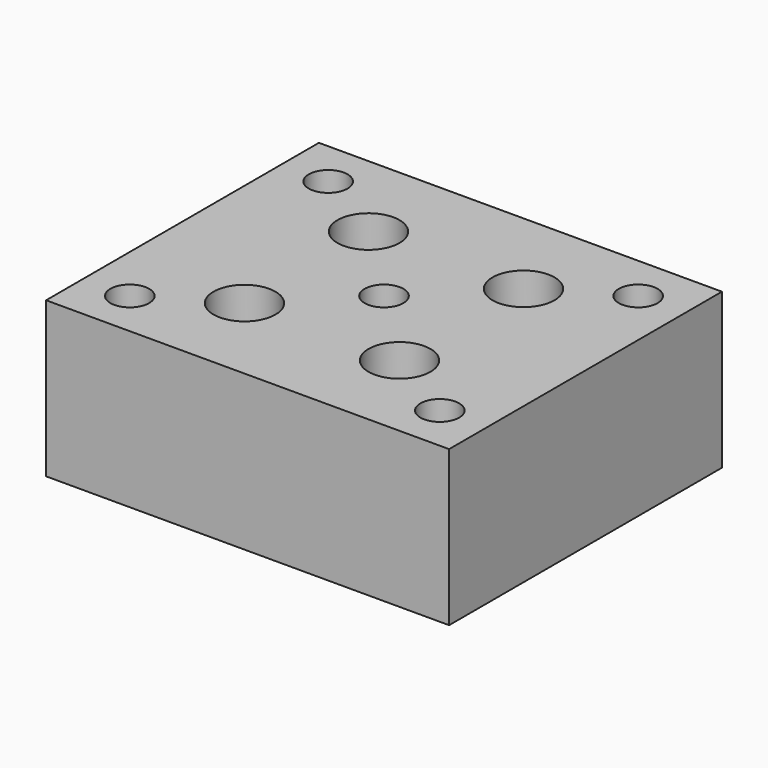
from build123d import *

# Parameters (mm, degrees)
CYLINDER968_R             = 2.1
CYLINDER968_DEPTH         = 15
CYLINDER969_R             = 2.1
CYLINDER969_DEPTH         = 15
CYLINDER970_R             = 2.1
CYLINDER970_DEPTH         = 15
CYLINDER971_R             = 2.1
CYLINDER971_DEPTH         = 15
FUSION109_PLACEMENT_ANGLE = 90
CYLINDER965_R             = 2
CYLINDER965_DEPTH         = 15
CYLINDER967_R             = 2
CYLINDER967_DEPTH         = 15
CYLINDER966_R             = 2
CYLINDER966_DEPTH         = 15
CYLINDER964_R             = 2
CYLINDER964_DEPTH         = 15
CYLINDER958_R             = 1.25
CYLINDER958_DEPTH         = 15
CYLINDER957_R             = 1.25
CYLINDER957_DEPTH         = 15
CYLINDER956_R             = 1.25
CYLINDER956_DEPTH         = 15
CYLINDER955_R             = 1.25
CYLINDER955_DEPTH         = 15
CYLINDER070_R             = 8.9
CYLINDER070_DEPTH         = 4.2
CYLINDER072_R             = 1.25
CYLINDER072_DEPTH         = 12
BOX005_W                  = 26
BOX005_H                  = 22
BOX005_DEPTH              = 10


with BuildPart() as cylinder968:
    # Cylinder968 → Cylinder968 (new body)
    with BuildSketch(Plane(origin=(7, 0, 0), x_dir=(1, 0, 0), z_dir=(0, 0, 1))):
        Circle(CYLINDER968_R)
    extrude(amount=CYLINDER968_DEPTH)


with BuildPart() as fusion108:
    # Cylinder969 → Cylinder969 (new body)
    with BuildSketch(Plane(origin=(-7, 0, 0), x_dir=(1, 0, 0), z_dir=(0, 0, 1))):
        Circle(CYLINDER969_R)
    extrude(amount=CYLINDER969_DEPTH)

    # Fusion108: union Cylinder968
    add(cylinder968.part)


with BuildPart() as cylinder970:
    # Cylinder970 → Cylinder970 (new body)
    with BuildSketch(Plane(origin=(7, 0, 0), x_dir=(1, 0, 0), z_dir=(0, 0, 1))):
        Circle(CYLINDER970_R)
    extrude(amount=CYLINDER970_DEPTH)


with BuildPart() as fusion110:
    # Cylinder971 → Cylinder971 (new body)
    with BuildSketch(Plane(origin=(-7, 0, 0), x_dir=(1, 0, 0), z_dir=(0, 0, 1))):
        Circle(CYLINDER971_R)
    extrude(amount=CYLINDER971_DEPTH)

    # Fusion109: union Cylinder970
    add(cylinder970.part)


with BuildPart() as fusion110_1:
    # Fusion109 placement: moved
    add(fusion110.part.rotate(Axis((0, 0, 0), (0, 0, 1)), FUSION109_PLACEMENT_ANGLE))

    # Fusion110: union Fusion108
    add(fusion108.part)


with BuildPart() as fusion110_2:
    # Fusion110 placement: moved
    add(fusion110_1.part.moved(Location((0, 0, -14))))


with BuildPart() as cylinder965:
    # Cylinder965 → Cylinder965 (new body)
    with BuildSketch(Plane(origin=(5, 5, -2), x_dir=(1, 0, 0), z_dir=(0, 0, 1))):
        Circle(CYLINDER965_R)
    extrude(amount=CYLINDER965_DEPTH)


with BuildPart() as cylinder967:
    # Cylinder967 → Cylinder967 (new body)
    with BuildSketch(Plane(origin=(5, -5, -2), x_dir=(1, 0, 0), z_dir=(0, 0, 1))):
        Circle(CYLINDER967_R)
    extrude(amount=CYLINDER967_DEPTH)


with BuildPart() as cylinder966:
    # Cylinder966 → Cylinder966 (new body)
    with BuildSketch(Plane(origin=(-5, -5, -2), x_dir=(1, 0, 0), z_dir=(0, 0, 1))):
        Circle(CYLINDER966_R)
    extrude(amount=CYLINDER966_DEPTH)


with BuildPart() as fusion106:
    # Cylinder964 → Cylinder964 (new body)
    with BuildSketch(Plane(origin=(-5, 5, -2), x_dir=(1, 0, 0), z_dir=(0, 0, 1))):
        Circle(CYLINDER964_R)
    extrude(amount=CYLINDER964_DEPTH)

    # Fusion106: union Cylinder965, Cylinder967, Cylinder966
    add(cylinder965.part)
    add(cylinder967.part)
    add(cylinder966.part)


with BuildPart() as cylinder958:
    # Cylinder958 → Cylinder958 (new body)
    with BuildSketch(Plane(origin=(10, -8, -2), x_dir=(1, 0, 0), z_dir=(0, 0, 1))):
        Circle(CYLINDER958_R)
    extrude(amount=CYLINDER958_DEPTH)


with BuildPart() as cylinder957:
    # Cylinder957 → Cylinder957 (new body)
    with BuildSketch(Plane(origin=(10, 8, -2), x_dir=(1, 0, 0), z_dir=(0, 0, 1))):
        Circle(CYLINDER957_R)
    extrude(amount=CYLINDER957_DEPTH)


with BuildPart() as cylinder956:
    # Cylinder956 → Cylinder956 (new body)
    with BuildSketch(Plane(origin=(-10, -8, -2), x_dir=(1, 0, 0), z_dir=(0, 0, 1))):
        Circle(CYLINDER956_R)
    extrude(amount=CYLINDER956_DEPTH)


with BuildPart() as fusion104:
    # Cylinder955 → Cylinder955 (new body)
    with BuildSketch(Plane(origin=(-10, 8, -2), x_dir=(1, 0, 0), z_dir=(0, 0, 1))):
        Circle(CYLINDER955_R)
    extrude(amount=CYLINDER955_DEPTH)

    # Fusion104: union Cylinder958, Cylinder957, Cylinder956
    add(cylinder958.part)
    add(cylinder957.part)
    add(cylinder956.part)


with BuildPart() as cylinder070:
    # Cylinder070 → Cylinder070 (new body)
    with BuildSketch(Plane.XY):
        Circle(CYLINDER070_R)
    extrude(amount=CYLINDER070_DEPTH)


with BuildPart() as fusion036:
    # Cylinder072 → Cylinder072 (new body)
    with BuildSketch(Plane.XY):
        Circle(CYLINDER072_R)
    extrude(amount=CYLINDER072_DEPTH)

    # Fusion036: union Cylinder070
    add(cylinder070.part)


with BuildPart() as diff_lock_planetary_inf_holes:
    # Box005 → Box005 (new body)
    with BuildSketch(Plane(origin=(-13, -11, 0), x_dir=(1, 0, 0), z_dir=(0, 0, 1))):
        with Locations((13, 11)):
            Rectangle(BOX005_W, BOX005_H)
    extrude(amount=BOX005_DEPTH)

    # Cut014011: cut Fusion036
    add(fusion036.part, mode=Mode.SUBTRACT)

    # Cut014048: cut Fusion104
    add(fusion104.part, mode=Mode.SUBTRACT)

    # Cut014053: cut Fusion106
    add(fusion106.part, mode=Mode.SUBTRACT)

    # Cut014054: cut Fusion110
    add(fusion110_2.part, mode=Mode.SUBTRACT)


solid = diff_lock_planetary_inf_holes.part
